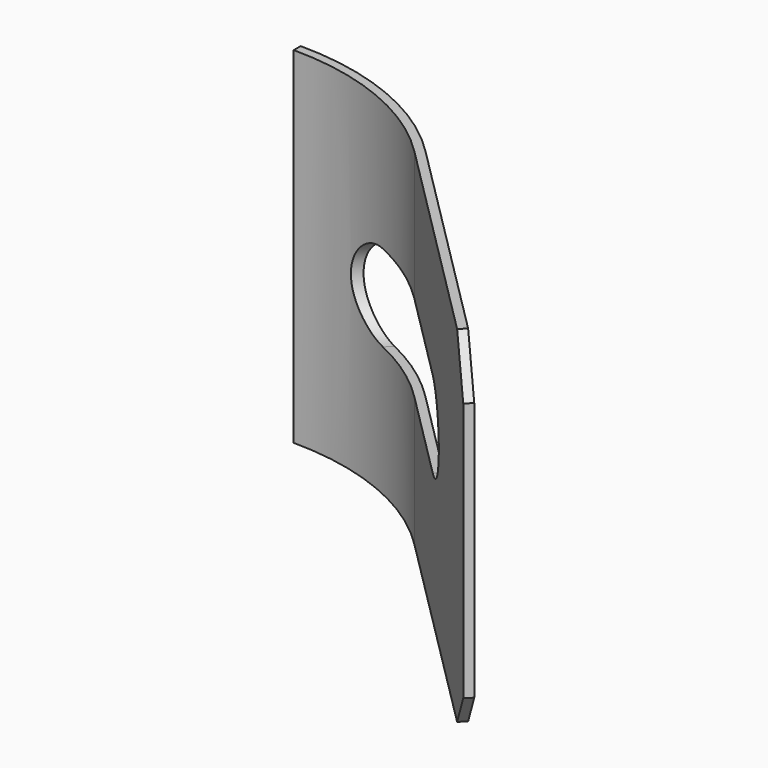
from build123d import *

# Parameters (mm, degrees)
F0_W     = 2
F0_H     = 80
F1_ANGLE = 45
F2_DEPTH = 80
F4_DEPTH = 71.501
F5_SIZE  = 10


with BuildPart() as f1:
    # F0 (on Right) → F1 (revolve)
    with BuildSketch(Plane.YZ):
        with Locations((60, 0)):
            Rectangle(F0_W, F0_H)
    revolve(axis=Axis((0, 0, 0), (0, 0, -1)), revolution_arc=F1_ANGLE)

    # F2 (add): a face of the model
    f2_faces = [f1.faces().sort_by_distance(p)[0] for p in [
        (42.4264068712, 42.4264068712, 0),
    ]]
    extrude(f2_faces, amount=F2_DEPTH)

    # F3 (on face) → F4 (cut, through all)
    with BuildSketch(Plane(origin=(43.1335136524, 43.1335136524, 0), x_dir=(-0.7071067812, 0.7071067812, 0), z_dir=(0.7071067812, 0.7071067812, 0))):
        with BuildLine():
            ThreePointArc((20, -10), (30, 0), (20, 10))
            Line((20, 10), (-30, 10))
            ThreePointArc((-30, 10), (-40, 0), (-30, -10))
            Line((-30, -10), (20, -10))
        make_face()
    extrude(amount=-F4_DEPTH, mode=Mode.SUBTRACT)

    # F5
    f5_edges = [f1.edges().sort_by_distance(p)[0] for p in [
        (98.994949, -14.142136, 40),
        (98.994949, -14.142136, -40),
    ]]
    chamfer(f5_edges, length=F5_SIZE)


solid = f1.part
